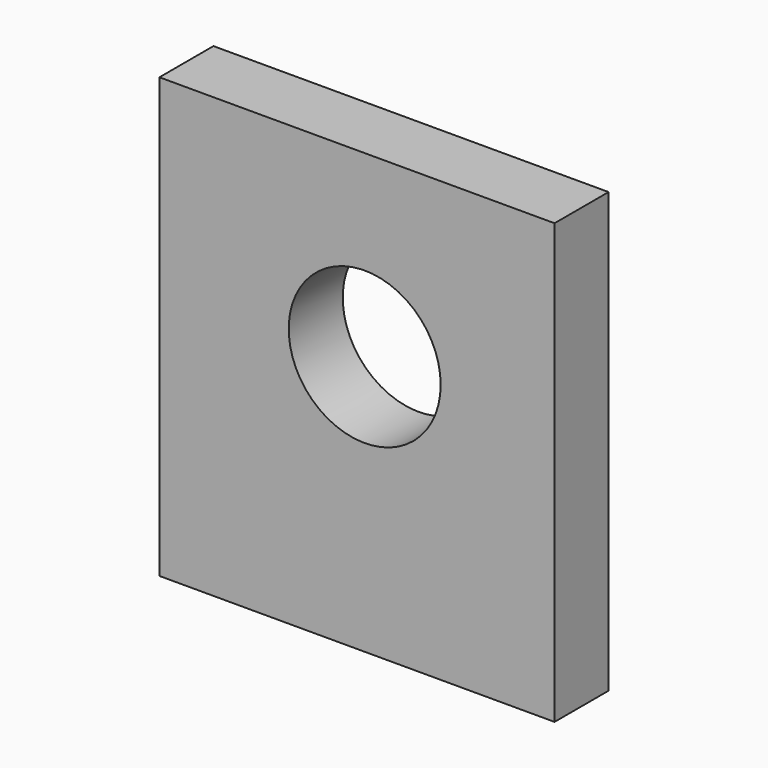
from build123d import *

# Parameters (mm, degrees)
F0_W     = 117
F0_H     = 130
F0_R     = 22.5
F1_DEPTH = 20
F2_T     = -2.5


with BuildPart() as f1:
    # F0 (on Front) → F1 (new body)
    with BuildSketch(Plane.XZ):
        with Locations((10.272232, 3.29488)):
            Rectangle(F0_W, F0_H)
        with Locations((12.552434, 15.195051)):
            Circle(F0_R, mode=Mode.SUBTRACT)
    extrude(amount=F1_DEPTH)

    # F2
    f2_openings = [f1.faces().sort_by_distance(p)[0] for p in [
        (67.02326, 0, 3.29488),
    ]]
    offset(amount=F2_T, openings=f2_openings)


solid = f1.part
